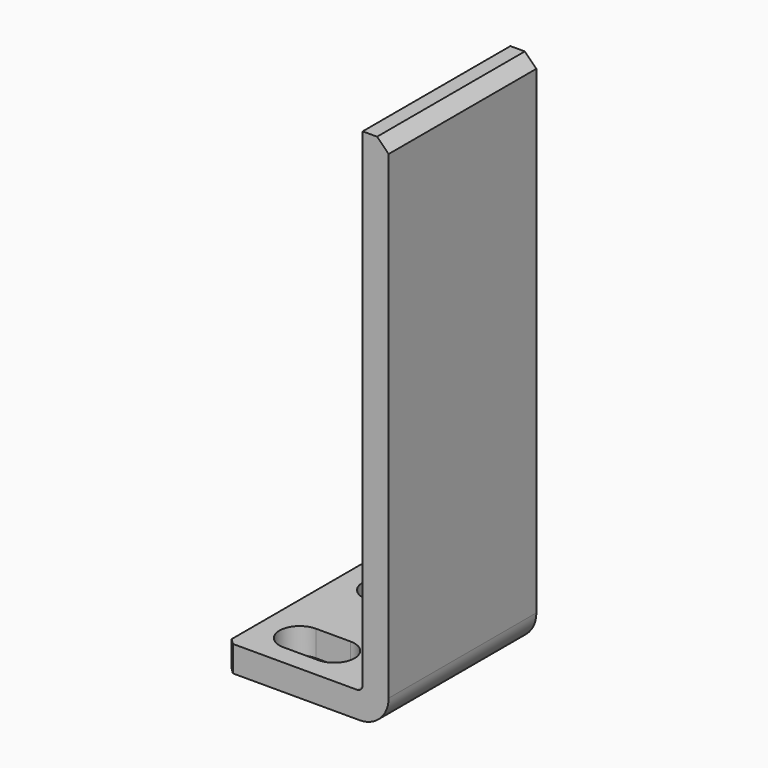
from build123d import *

# Parameters (mm, degrees)
F1_DEPTH = 32
F2_R     = 1
F3_R     = 5
F4_SIZE  = 2
F5_SIZE  = 1
F7_DEPTH = 4.5


with BuildPart() as f1:
    # F0 (on Front) → F1 (new body)
    with BuildSketch(Plane.XZ):
        Polygon((0, 0), (0, 90), (-4.5, 90), (-4.5, 4.5), (-28, 4.5), (-28, 0), align=None)
    extrude(amount=F1_DEPTH)

    # F2
    f2_edges = [f1.edges().sort_by_distance(p)[0] for p in [
        (-4.5, -16, 4.5),
    ]]
    fillet(f2_edges, radius=F2_R)

    # F3
    f3_edges = [f1.edges().sort_by_distance(p)[0] for p in [
        (0, -16, 0),
    ]]
    fillet(f3_edges, radius=F3_R)

    # F4
    f4_edges = [f1.edges().sort_by_distance(p)[0] for p in [
        (0, -16, 90),
    ]]
    chamfer(f4_edges, length=F4_SIZE)

    # F5
    f5_edges = [f1.edges().sort_by_distance(p)[0] for p in [
        (-28, -32, 2.25),
        (-28, 0, 2.25),
    ]]
    chamfer(f5_edges, length=F5_SIZE)

    # F6 (on face) → F7 (cut)
    with BuildSketch(Plane.XY.offset(4.5)):
        with BuildLine():
            ThreePointArc((-15, -10.5), (-11.5, -7), (-15, -3.5))
            Line((-15, -3.5), (-21, -3.5))
            ThreePointArc((-21, -3.5), (-24.5, -7), (-21, -10.5))
            Line((-21, -10.5), (-15, -10.5))
        make_face()
        with BuildLine():
            ThreePointArc((-15, -28.5), (-11.5, -25), (-15, -21.5))
            Line((-15, -21.5), (-21, -21.5))
            ThreePointArc((-21, -21.5), (-24.5, -25), (-21, -28.5))
            Line((-21, -28.5), (-15, -28.5))
        make_face()
    extrude(amount=-F7_DEPTH, mode=Mode.SUBTRACT)


solid = f1.part
